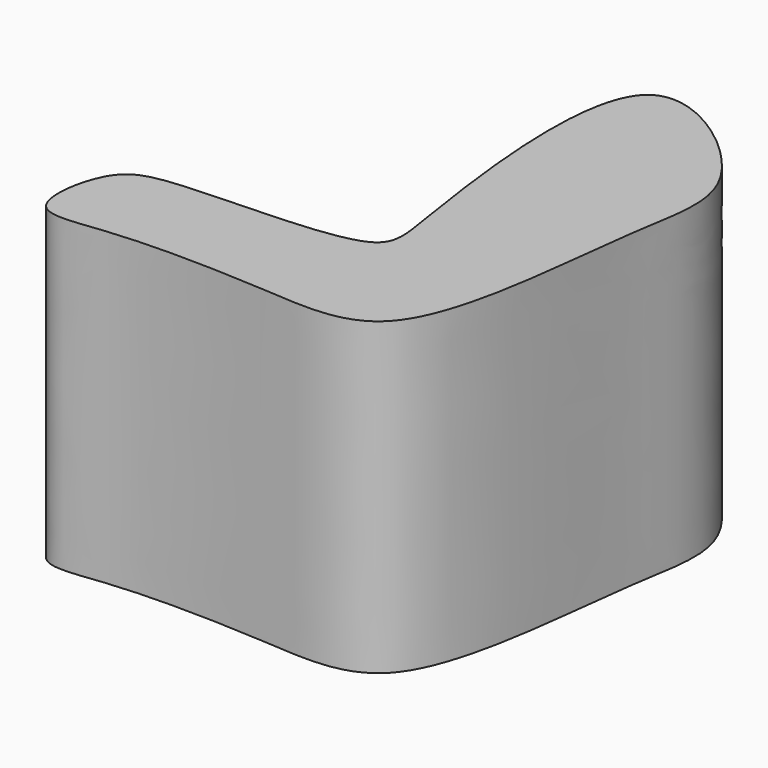
from build123d import *

# Parameters (mm, degrees)
F1_DEPTH = 80
F2_W     = 62.7546161413
F2_H     = 70.9238518029
F3_DEPTH = 50


with BuildPart() as f1:
    # F0 (on Top) → F1 (new body)
    with BuildSketch(Plane.XY):
        with BuildLine():
            add(Edge.make_bspline(
                [(-52.5200553238, -59.991531074), (-40.60441342, -58.7731262983), (-12.469365257, -59.3369400121), (25.977231685, -63.7334936331), (29.2491837599, 7.4654544002), (38.5134792016, 35.5090246858), (-19.614757559, 78.7886275924), (-5.6120199069, -15.5829426668), (-1.8827205412, -35.0962399441), (-55.3664712621, -33.2345954203), (-68.839461673, -38.4326312622), (-72.643947414, -63.5532619528), (-60.0482054863, -60.7613036289), (-52.5200553238, -59.991531074)],
                knots=[0, 0, 0, 0, 0.102115063, 0.1889616951, 0.3135836169, 0.4035021374, 0.5016757477, 0.6352170469, 0.6991867581, 0.8079352705, 0.8692601269, 0.9354850092, 1, 1, 1, 1], degree=3))
        make_face()
    extrude(amount=F1_DEPTH)

    # F2 (on Front) → F3 (cut)
    with BuildSketch(Plane.XZ):
        with Locations((-40.5393987894, 40.4559960589)):
            Rectangle(F2_W, F2_H)
    extrude(amount=F3_DEPTH, mode=Mode.SUBTRACT)


solid = f1.part
